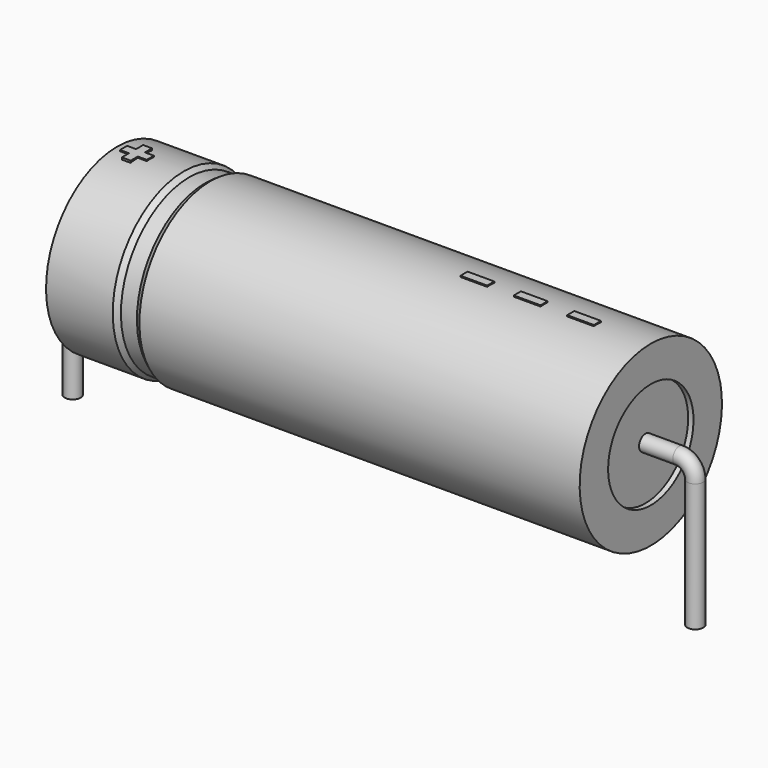
from build123d import *

# Parameters (mm, degrees)
SKETCH_R    = 0.45
SKETCH004_W = 1.5
SKETCH004_H = 0.5
PAD_DEPTH   = 5.05


with BuildPart() as sweep_body:
    # Sweep: sweep along a path in Sketch001
    with BuildLine(Plane.XZ) as sweep_path:
        Line((0, -3), (0, 4.2))
        ThreePointArc((0, 4.2), (0.263601, 4.836394), (0.899993, 5.1))
        Line((0.899993, 5.1), (34.1, 5.1))
        ThreePointArc((34.1, 5.1), (34.736396, 4.836396), (35, 4.2))
        Line((35, 4.2), (35, -3))
    # Sketch → Sweep (sweep)
    with BuildSketch(Plane.XY.offset(-2)):
        Circle(SKETCH_R)
    sweep(path=sweep_path.line)


with BuildPart() as revolution:
    # Sketch002 → Revolution (revolve)
    with BuildSketch(Plane.XZ):
        Polygon((2.5, 10.1), (2.5, 8.1), (32.5, 8.1), (32.5, 10.1), (7.75, 10.1), (7.45, 9.9), (6.55, 9.9), (6.25, 10.1), align=None)
    revolve(axis=Axis((6.97588, 0, 5.1), (1, 0, 0)))


with BuildPart() as revolution001:
    # Sketch003 → Revolution001 (revolve)
    with BuildSketch(Plane.XZ):
        Polygon((2.8, 9.9), (4.3, 9.9), (4.3, 5.6), (30.7, 5.6), (30.7, 9.9), (32.2, 9.9), (32.2, 5.1), (2.8, 5.1), align=None)
    revolve(axis=Axis((6.97588, 0, 5.1), (1, 0, 0)))


with BuildPart() as pad:
    # Sketch004 → Pad (new body)
    with BuildSketch(Plane.XY.offset(5.1)):
        with Locations((28.75, 0)):
            Rectangle(SKETCH004_W, SKETCH004_H)
        with Locations((25.75, 0)):
            Rectangle(SKETCH004_W, SKETCH004_H)
        with Locations((22.75, 0)):
            Rectangle(SKETCH004_W, SKETCH004_H)
        Polygon((3.36, 0.25), (2.86, 0.25), (2.86, -0.25), (3.36, -0.25), (3.36, -0.75), (3.86, -0.75), (3.86, -0.25), (4.36, -0.25), (4.36, 0.25), (3.86, 0.25), (3.86, 0.75), (3.36, 0.75), align=None)
    extrude(amount=PAD_DEPTH)


solid = Compound([sweep_body.part, revolution.part, revolution001.part, pad.part])
